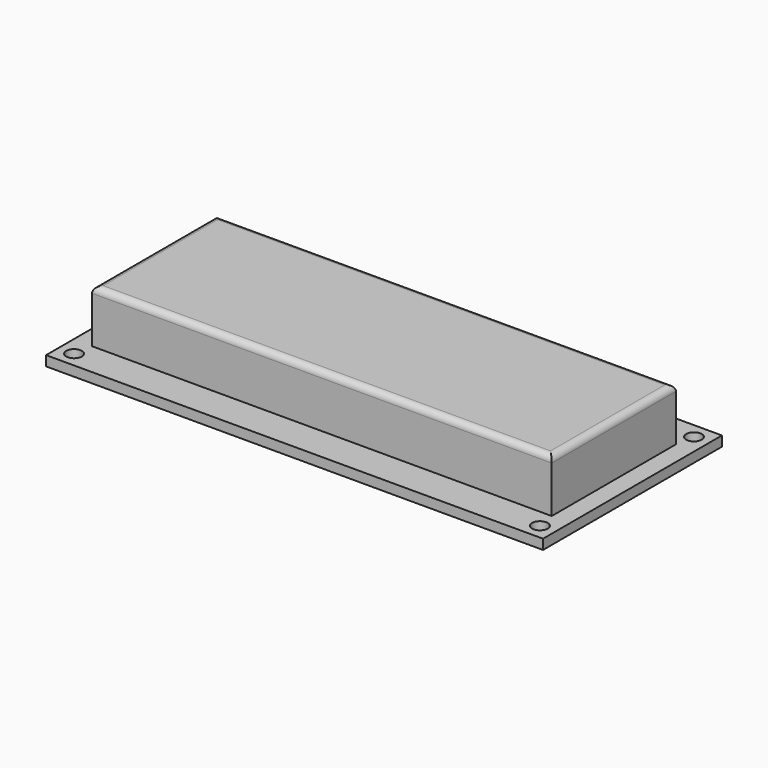
from build123d import *

# Parameters (mm, degrees)
F0_W     = 80
F0_H     = 36
F0_W_2   = 74
F0_H_2   = 25
F1_DEPTH = 1.6
F2_DEPTH = 8.5
F3_D     = 2.5
F4_R     = 1


with BuildPart() as f1:
    # F0 (on Top) → F1 (new body)
    with BuildSketch(Plane.XY):
        Rectangle(F0_W, F0_H)
        Rectangle(F0_W_2, F0_H_2, mode=Mode.SUBTRACT)
        Rectangle(F0_W_2, F0_H_2)
    extrude(amount=-F1_DEPTH)

    # F0 (on Top) → F2 (join)
    with BuildSketch(Plane.XY):
        Rectangle(F0_W_2, F0_H_2)
    extrude(amount=F2_DEPTH)

    # F3 (through all)
    with Locations(Plane.XY):
        with Locations((-37.5, 15.5), (37.5, 15.5), (37.5, -15.5), (-37.5, -15.5)):
            Hole(F3_D / 2)

    # F4
    f4_edges = [f1.edges().sort_by_distance(p)[0] for p in [
        (0, 12.5, 8.5),
        (-37, 0, 8.5),
        (0, -12.5, 8.5),
        (37, 0, 8.5),
    ]]
    fillet(f4_edges, radius=F4_R)


solid = f1.part
